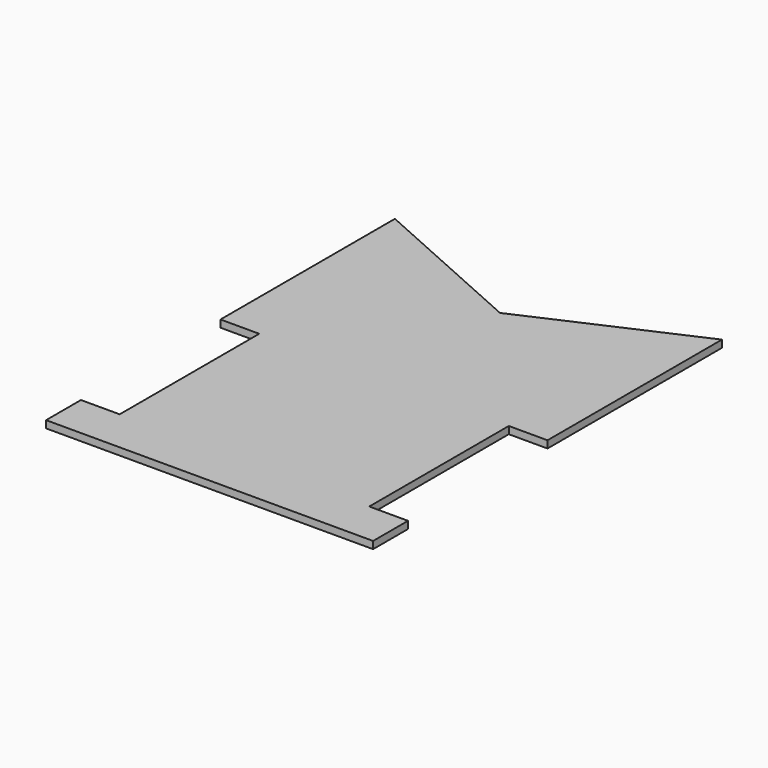
from build123d import *

# Parameters (mm, degrees)
F1_DEPTH = 3.175


with BuildPart() as f1:
    # F0 (on Top) → F1 (new body)
    with BuildSketch(Plane.XY):
        Polygon((-44.863732, -79.258741), (-44.863732, -98.308741), (26.573768, -98.308741), (26.573768, 60.288597), (-44.863732, 92.191259), (-44.863732, -3.058741), (-27.947332, -3.058741), (-27.947332, -79.258741), align=None)
        Polygon((26.573768, 60.288597), (26.573768, -98.308741), (98.011268, -98.308741), (98.011268, -79.258741), (81.094868, -79.258741), (81.094868, -3.058741), (98.011268, -3.058741), (98.011268, 92.191259), align=None)
    extrude(amount=F1_DEPTH)


solid = f1.part
